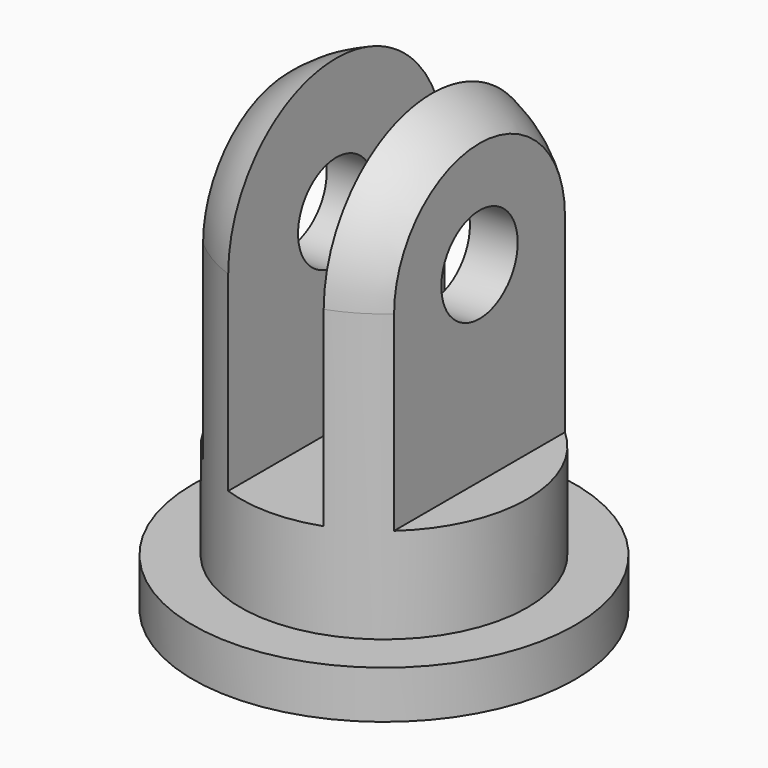
from build123d import *

# Parameters (mm, degrees)
F0_R     = 4
F1_DEPTH = 1
F2_R     = 3
F3_DEPTH = 9
F4_R     = 3
F5_W     = 2
F5_H     = 8
F6_DEPTH = 3.81
F7_R     = 1
F8_DEPTH = 25


with BuildPart() as f1:
    # F0 (on Top) → F1 (new body)
    with BuildSketch(Plane.XY):
        Circle(F0_R)
    extrude(amount=F1_DEPTH)

    # F2 (on face) → F3 (join)
    with BuildSketch(Plane.XY.offset(1)):
        Circle(F2_R)
    extrude(amount=F3_DEPTH)

    # F4
    f4_edges = [f1.edges().sort_by_distance(p)[0] for p in [
        (-3, 0, 10),
    ]]
    fillet(f4_edges, radius=F4_R)

    # F5 (on Front) → F6 (cut, symmetric)
    with BuildSketch(Plane.XZ):
        with Locations((-3, 7)):
            Rectangle(F5_W, F5_H)
        with Locations((0, 7)):
            Rectangle(F5_W, F5_H)
        with Locations((3, 7)):
            Rectangle(F5_W, F5_H)
    extrude(amount=F6_DEPTH, both=True, mode=Mode.SUBTRACT)

    # F7 (on face) → F8 (cut)
    with BuildSketch(Plane.YZ.offset(2)):
        with Locations((0, 7)):
            Circle(F7_R)
    extrude(amount=-F8_DEPTH, mode=Mode.SUBTRACT)


solid = f1.part
